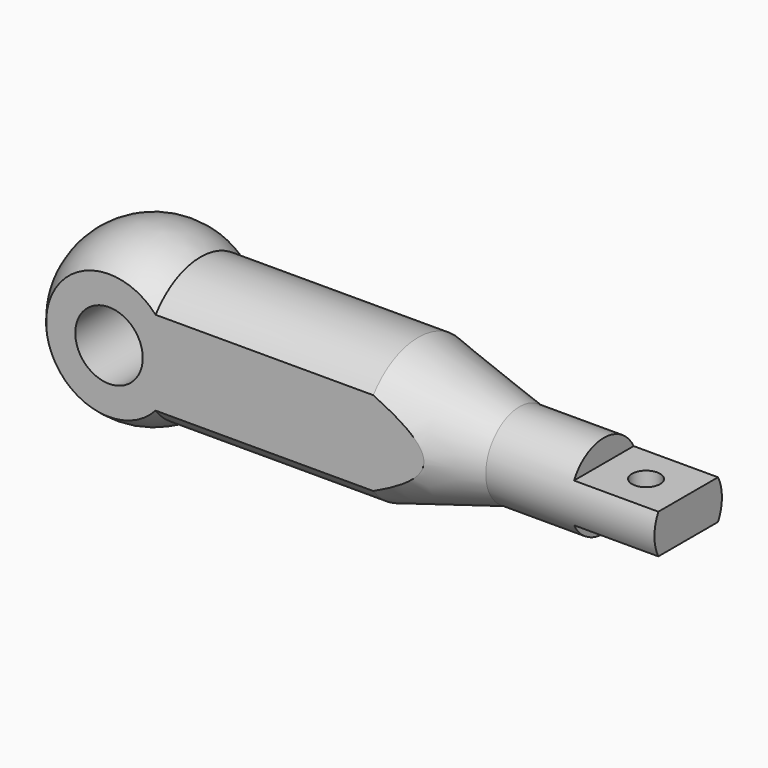
from build123d import *

# Parameters (mm, degrees)
F2_W          = 15
F2_H          = 4
F3_DEPTH      = 15.001
F3_DEPTH_BACK = 15.001
F4_R          = 2.5
F5_DEPTH      = 18.501
F6_W          = 12.3337181229
F6_H          = 36.1201704294
F7_DEPTH      = 15.001
F7_DEPTH_BACK = 95.001
F8_R          = 6
F9_DEPTH      = 10.001
F9_DEPTH_BACK = 10.001


with BuildPart() as f1:
    # F0 (on Front) → F1 (revolve)
    with BuildSketch(Plane.XZ):
        with BuildLine():
            Line((47, 12.5), (8.2915619759, 12.5))
            ThreePointArc((8.2915619759, 12.5), (-7.0931858273, 13.2169101843), (-15, 0))
            Line((-15, 0), (95, 0))
            Line((95, 0), (95, 7.5))
            Line((95, 7.5), (80, 7.5))
            Line((80, 7.5), (65, 7.5))
            Line((65, 7.5), (47, 12.5))
        make_face()
    revolve(axis=Axis((40, 0, 0), (1, 0, 0)))

    # F2 (on Front) → F3 (cut, two sides)
    with BuildSketch(Plane.XZ) as f3_sk:
        with Locations((87.5, 5.5)):
            Rectangle(F2_W, F2_H)
        with Locations((87.5, -5.5)):
            Rectangle(F2_W, F2_H)
    extrude(amount=-F3_DEPTH, mode=Mode.SUBTRACT)
    extrude(f3_sk.sketch, amount=F3_DEPTH_BACK, mode=Mode.SUBTRACT)

    # F4 (on face) → F5 (cut, through all)
    with BuildSketch(Plane.XY.offset(3.5)):
        with Locations((87.5, 0)):
            Circle(F4_R)
    extrude(amount=-F5_DEPTH, mode=Mode.SUBTRACT)

    # F6 (on Right) → F7 (cut, two sides)
    with BuildSketch(Plane.YZ) as f7_sk:
        with Locations((-16.1668590615, 0.1618554816)):
            Rectangle(F6_W, F6_H)
        with Locations((16.1668590615, 0.1618554816)):
            Rectangle(F6_W, F6_H)
    extrude(amount=-F7_DEPTH, mode=Mode.SUBTRACT)
    extrude(f7_sk.sketch, amount=F7_DEPTH_BACK, mode=Mode.SUBTRACT)

    # F8 (on Front) → F9 (cut, two sides)
    with BuildSketch(Plane.XZ) as f9_sk:
        Circle(F8_R)
    extrude(amount=-F9_DEPTH, mode=Mode.SUBTRACT)
    extrude(f9_sk.sketch, amount=F9_DEPTH_BACK, mode=Mode.SUBTRACT)


solid = f1.part
